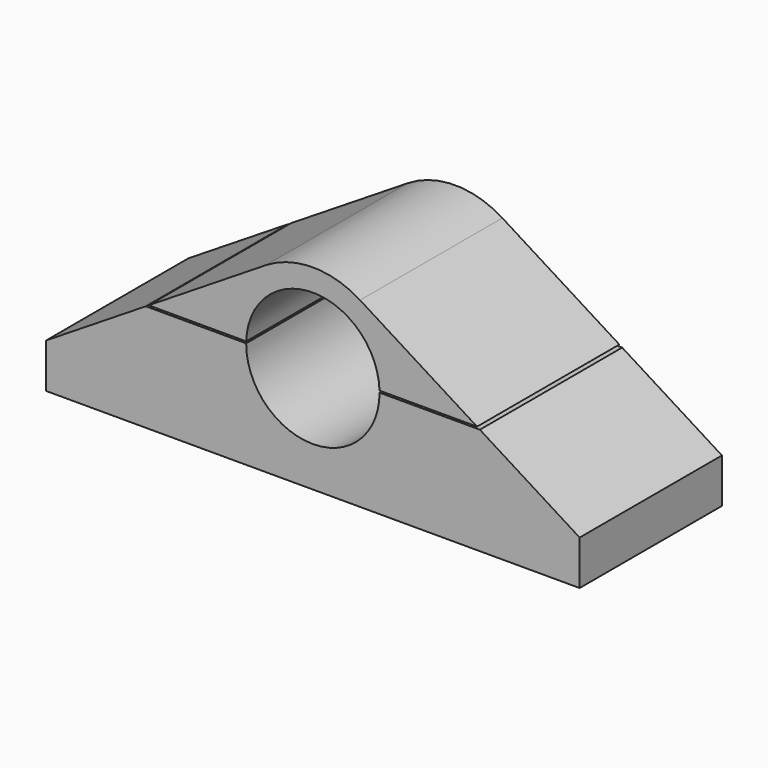
from build123d import *

# Parameters (mm, degrees)
F0_W     = 76.2
F0_H     = 25.4
F1_DEPTH = 6.35
F3_DEPTH = 25.4
F4_R     = 9.525
F5_DEPTH = 25.4
F7_DEPTH = 25.4


with BuildPart() as f1:
    # F0 (on Top) → F1 (new body)
    with BuildSketch(Plane.XY):
        Rectangle(F0_W, F0_H)
    extrude(amount=F1_DEPTH)

    # F2 (on face) → F3 (join, through all)
    with BuildSketch(Plane(origin=(0, 12.7, 0), x_dir=(-1, 0, 0), z_dir=(0, 1, 0))):
        with BuildLine():
            ThreePointArc((-3.4195796525, 6.35), (-5.3923153102, 23.0916597351), (9.525, 15.24))
            ThreePointArc((9.525, 15.24), (7.8516597351, 9.8476846898), (3.4195796525, 6.35))
            Line((3.4195796525, 6.35), (38.1, 6.35))
            Line((38.1, 6.35), (6.7442919348, 26.0012511493))
            ThreePointArc((6.7442919348, 26.0012511493), (0, 27.94), (-6.7442919348, 26.0012511493))
            Line((-6.7442919348, 26.0012511493), (-38.1, 6.35))
            Line((-38.1, 6.35), (-3.4195796525, 6.35))
        make_face()
        with BuildLine():
            ThreePointArc((3.4195796525, 6.35), (7.8516597351, 9.8476846898), (9.525, 15.24))
            ThreePointArc((9.525, 15.24), (-5.3923153102, 23.0916597351), (-3.4195796525, 6.35))
            Line((-3.4195796525, 6.35), (3.4195796525, 6.35))
        make_face()
    extrude(amount=-F3_DEPTH)

    # F4 (on face) → F5 (cut, through all)
    with BuildSketch(Plane(origin=(0, 12.7, 0), x_dir=(-1, 0, 0), z_dir=(0, 1, 0))):
        with Locations((0, 15.24)):
            Circle(F4_R)
    extrude(amount=-F5_DEPTH, mode=Mode.SUBTRACT)

    # F6 (on face) → F7 (cut, through all)
    with BuildSketch(Plane(origin=(0, 12.7, 0), x_dir=(-1, 0, 0), z_dir=(0, 1, 0))):
        with BuildLine():
            Line((23.4489112285, 15.5321311916), (9.5205191228, 15.5321311916))
            ThreePointArc((9.5205191228, 15.5321311916), (9.5235682304, 15.4051458763), (9.5249236749, 15.2781311916))
            Line((9.5249236749, 15.2781311916), (23.8541958482, 15.2781311916))
            Line((23.8541958482, 15.2781311916), (23.4489112285, 15.5321311916))
        make_face()
        with BuildLine():
            Line((-9.5205191228, 15.5321311916), (-23.4489112285, 15.5321311916))
            Line((-23.4489112285, 15.5321311916), (-23.8541958482, 15.2781311916))
            Line((-23.8541958482, 15.2781311916), (-9.5249236749, 15.2781311916))
            ThreePointArc((-9.5249236749, 15.2781311916), (-9.5235682304, 15.4051458763), (-9.5205191228, 15.5321311916))
        make_face()
    extrude(amount=-F7_DEPTH, mode=Mode.SUBTRACT)


solid = f1.part
